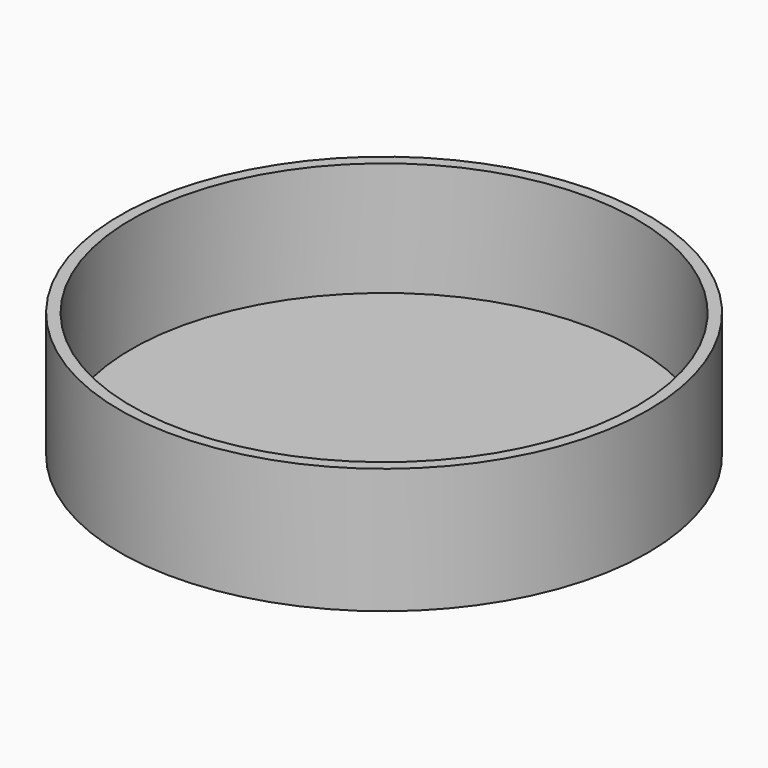
from build123d import *

# Parameters (mm, degrees)
SKETCH_R    = 42.1
PAD_DEPTH   = 20
THICKNESS_T = -1.8


with BuildPart() as part:
    # Sketch → Pad (new body)
    with BuildSketch(Plane.XY):
        Circle(SKETCH_R)
    extrude(amount=PAD_DEPTH)

    # Thickness
    thickness_openings = [part.faces().sort_by_distance(p)[0] for p in [
        (0, 0, 20),
    ]]
    offset(amount=THICKNESS_T, openings=thickness_openings)


solid = part.part
